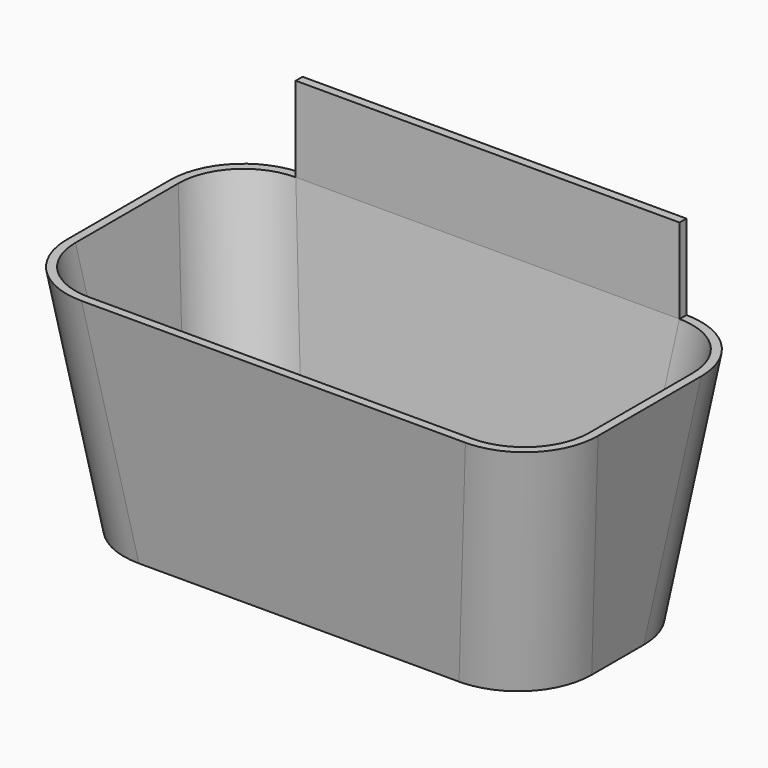
from build123d import *

# Parameters (mm, degrees)
F0_W      = 125
F0_H      = 110
F1_DEPTH  = 65
F3_DEPTH  = 65.001
F5_DEPTH  = 125.001
F8_R      = 35
F9_T      = -4
F10_W     = 180.6418882369
F10_H     = 4.0370187838
F11_DEPTH = 40


with BuildPart() as f1:
    # F0 (on Front) → F1 (new body)
    with BuildSketch(Plane.XZ):
        with Locations((-62.5, 0)):
            Rectangle(F0_W, F0_H)
    extrude(amount=F1_DEPTH)

    # F2 (on face) → F3 (cut, through all)
    with BuildSketch(Plane.XZ.offset(65)):
        Polygon((-110, -55), (-125, 55), (-154.2346477509, 55), (-148.0445983784, -67.179696599), (-108.0001720049, -65.150906356), align=None)
    extrude(amount=-F3_DEPTH, mode=Mode.SUBTRACT)

    # F4 (on face) → F5 (cut, through all)
    with BuildSketch(Plane.YZ):
        Polygon((-50, -55), (-65, 55), (-101.2629643083, 55), (-94.3923816085, -57.4389097095), (-50, -57.4389097095), align=None)
    extrude(amount=-F5_DEPTH, mode=Mode.SUBTRACT)

    # F6: F1 across face


with BuildPart() as f1_1:
    add(f1.part)
    add(f1.part.mirror(Plane(origin=(0, -28.9130434783, 2.3913043478), x_dir=(0, 1, 0), z_dir=(1, 0, 0))))

    # F7: F1 across face


with BuildPart() as f1_2:
    add(f1_1.part)
    add(f1_1.part.mirror(Plane(origin=(0, 0, 1.170212766), x_dir=(-1, 0, 0), z_dir=(0, 1, 0))))

    # F8
    f8_edges = [f1_2.edges().sort_by_distance(p)[0] for p in [
        (-117.5, -57.5, 0),
        (-117.5, 57.5, 0),
        (117.5, -57.5, 0),
        (117.5, 57.5, 0),
    ]]
    fillet(f8_edges, radius=F8_R)

    # F9
    f9_openings = [f1_2.faces().sort_by_distance(p)[0] for p in [
        (0, 0, 55),
    ]]
    offset(amount=F9_T, openings=f9_openings)

    # F10 (on face) → F11 (join)
    with BuildSketch(Plane.XY.offset(55)):
        with Locations((0, 62.9814906081)):
            Rectangle(F10_W, F10_H)
    extrude(amount=F11_DEPTH)


solid = f1_2.part
